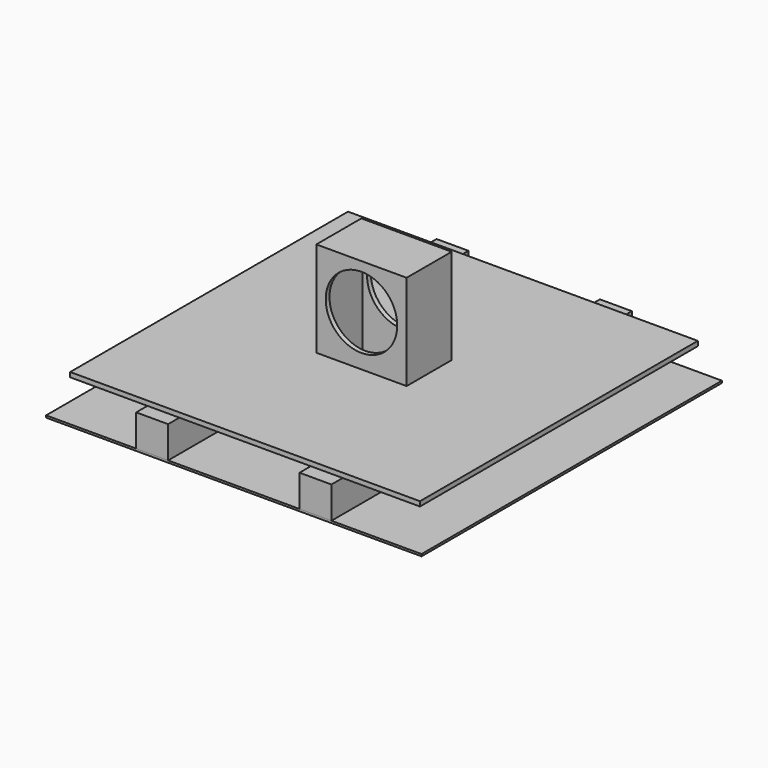
from build123d import *

# Parameters (mm, degrees)
F0_W      = 170
F0_H      = 170
F1_DEPTH  = 1000
F2_W      = 2000
F2_H      = 2000
F3_DEPTH  = 11
F4_W      = 481
F4_H      = 300
F5_DEPTH  = 714
F6_W      = 1863.2805347443
F6_H      = 1850.0454425812
F7_DEPTH  = 25
F9_T      = -25
F10_R     = 190.5
F11_DEPTH = 1150.001
F12_W     = 700
F12_H     = 700
F12_W_2   = 481
F12_H_2   = 300
F13_DEPTH = 145


with BuildPart() as f1:
    # F0 (on Front) → F1 (new body, symmetric)
    with BuildSketch(Plane.XZ):
        with Locations((-435, 85)):
            Rectangle(F0_W, F0_H)
    extrude(amount=F1_DEPTH, both=True)


with BuildPart() as f1b:
    # F0 (on Front) → F1, piece 2 (new body, symmetric)
    with BuildSketch(Plane.XZ):
        with Locations((435, 85)):
            Rectangle(F0_W, F0_H)
    extrude(amount=F1_DEPTH, both=True)


with BuildPart() as f3:
    # F2 (on Top) → F3 (new body)
    with BuildSketch(Plane.XY):
        Rectangle(F2_W, F2_H)
    extrude(amount=-F3_DEPTH)


with BuildPart() as f5:
    # F4 (on face) → F5 (new body)
    with BuildSketch(Plane(origin=(0, 0, -11), x_dir=(1, 0, 0), z_dir=(0, 0, -1))):
        Rectangle(F4_W, F4_H)
    extrude(amount=-F5_DEPTH)


with BuildPart() as f7:
    # F6 (on face) → F7 (new body)
    with BuildSketch(Plane.XY.offset(170)):
        Rectangle(F6_W, F6_H)
    extrude(amount=F7_DEPTH)

    # F8: cut F5
    add(f5.part, mode=Mode.SUBTRACT)


with BuildPart() as f3_1:
    add(f3.part)

    # F8: cut F5
    add(f5.part, mode=Mode.SUBTRACT)


with BuildPart() as f5_1:
    add(f5.part)

    # F9
    f9_openings = [f5_1.faces().sort_by_distance(p)[0] for p in [
        (0, 0, -11),
    ]]
    offset(amount=F9_T, openings=f9_openings)

    # F10 (on face) → F11 (cut, through all)
    with BuildSketch(Plane.XZ.offset(150)):
        with Locations((0, 462.5)):
            Circle(F10_R)
    extrude(amount=-F11_DEPTH, mode=Mode.SUBTRACT)


with BuildPart() as f13:
    # F12 (on face) → F13 (new body)
    with BuildSketch(Plane.XY):
        Rectangle(F12_W, F12_H)
        Rectangle(F12_W_2, F12_H_2, mode=Mode.SUBTRACT)
    extrude(amount=F13_DEPTH)


solid = Compound([f1.part, f1b.part, f7.part, f3_1.part, f5_1.part, f13.part])
